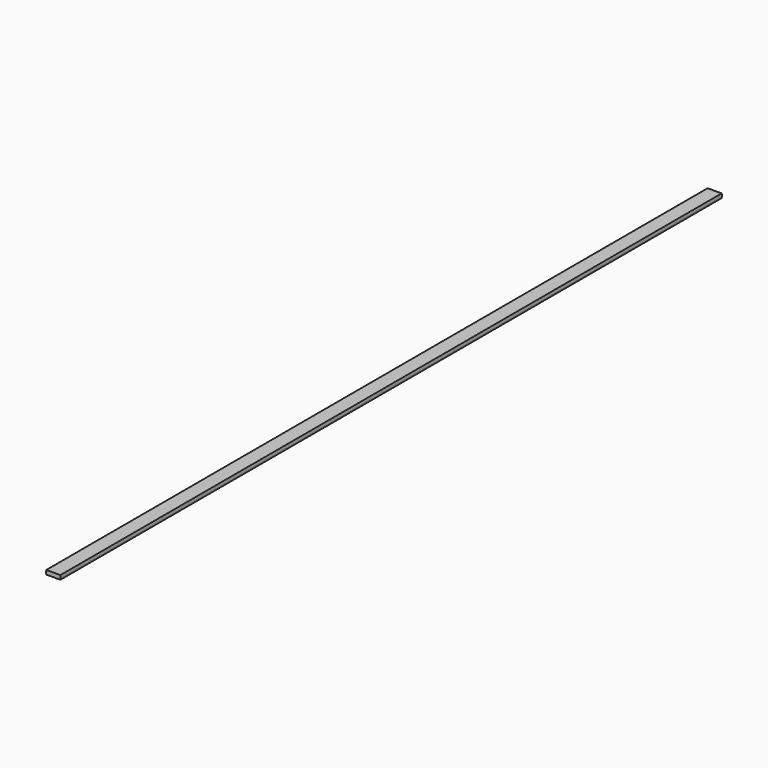
from build123d import *

# Parameters (mm, degrees)
F0_W     = 0.4318
F0_H     = 0.127
F1_DEPTH = 25.4


with BuildPart() as f1:
    # F0 (on Front) → F1 (new body)
    with BuildSketch(Plane.XZ):
        Rectangle(F0_W, F0_H)
        with BuildLine():
            Line((0.2159, 0.0635), (0.2159, -0.0635))
            ThreePointArc((0.2159, -0.0635), (0.223276, 0), (0.2159, 0.0635))
        make_face()
        with BuildLine():
            ThreePointArc((-0.2159, 0.0635), (-0.223276, 0), (-0.2159, -0.0635))
            Line((-0.2159, -0.0635), (-0.2159, 0.0635))
        make_face()
    extrude(amount=F1_DEPTH)


solid = f1.part
